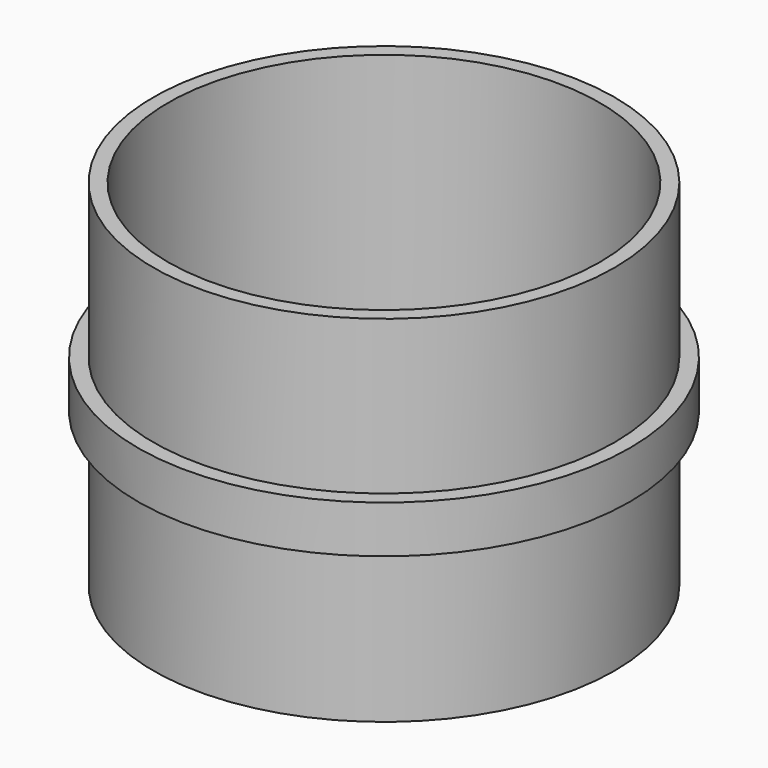
from build123d import *

# Parameters (mm, degrees)
F0_R     = 9.75
F0_R_2   = 9.125
F1_DEPTH = 7.5
F2_R     = 10.398155
F2_R_2   = 9.75
F3_DEPTH = 1


with BuildPart() as f1:
    # F0 (on Top) → F1 (new body, symmetric)
    with BuildSketch(Plane.XY):
        Circle(F0_R)
        Circle(F0_R_2, mode=Mode.SUBTRACT)
    extrude(amount=F1_DEPTH, both=True)

    # F2 (on Top) → F3 (join, symmetric)
    with BuildSketch(Plane.XY):
        Circle(F2_R)
        Circle(F2_R_2, mode=Mode.SUBTRACT)
    extrude(amount=F3_DEPTH, both=True)


solid = f1.part
